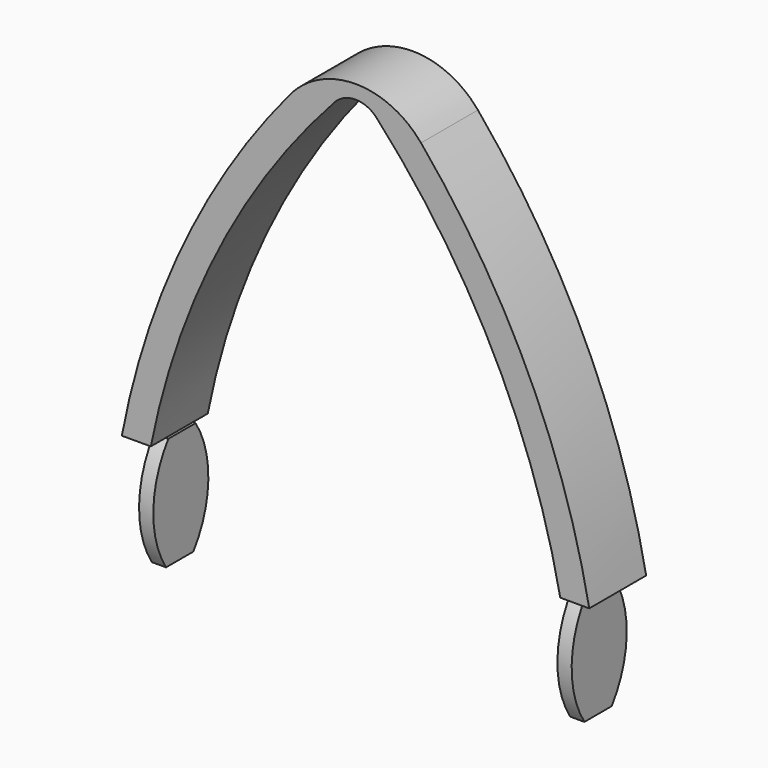
from build123d import *

# Parameters (mm, degrees)
F1_DEPTH = 12.7
F2_R     = 15.24
F3_R     = 5.08
F6_DEPTH = 1.27
F9_DEPTH = 1.27


with BuildPart() as f1:
    # F0 (on Front) → F1 (new body)
    with BuildSketch(Plane.XZ):
        with BuildLine():
            ThreePointArc((41.717369, 0.82729), (26.878905, 42.014486), (0, 76.570086))
            ThreePointArc((0, 76.570086), (-26.878905, 42.014486), (-41.717369, 0.82729))
            Line((-41.717369, 0.82729), (-36.542559, 0.82729))
            ThreePointArc((-36.542559, 0.82729), (-23.349687, 37.863578), (0, 69.494744))
            ThreePointArc((0, 69.494744), (23.349687, 37.863578), (36.542559, 0.82729))
            Line((36.542559, 0.82729), (41.717369, 0.82729))
        make_face()
    extrude(amount=F1_DEPTH)

    # F2
    f2_edges = [f1.edges().sort_by_distance(p)[0] for p in [
        (0, -6.35, 76.570086),
    ]]
    fillet(f2_edges, radius=F2_R)

    # F3
    f3_edges = [f1.edges().sort_by_distance(p)[0] for p in [
        (0, -6.35, 69.494744),
    ]]
    fillet(f3_edges, radius=F3_R)

    # F5 (on offset) → F6 (join, symmetric)
    with BuildSketch(Plane.YZ.offset(37.338)):
        with BuildLine():
            Line((-3.302, 0.82729), (-9.398, 0.82729))
            ThreePointArc((-9.398, 0.82729), (-12.734035, -9.091947), (-9.893086, -19.164158))
            Line((-9.893086, -19.164158), (-3.797086, -19.164158))
            ThreePointArc((-3.797086, -19.164158), (-0.461051, -9.24492), (-3.302, 0.82729))
        make_face()
    extrude(amount=F6_DEPTH, both=True)

    # F8 (on offset) → F9 (join, symmetric)
    with BuildSketch(Plane.YZ.offset(-37.338)):
        with BuildLine():
            Line((-3.302, 0.82729), (-9.398, 0.82729))
            ThreePointArc((-9.398, 0.82729), (-12.734035, -9.091947), (-9.893086, -19.164158))
            Line((-9.893086, -19.164158), (-3.797086, -19.164158))
            ThreePointArc((-3.797086, -19.164158), (-0.461051, -9.24492), (-3.302, 0.82729))
        make_face()
    extrude(amount=F9_DEPTH, both=True)


solid = f1.part
